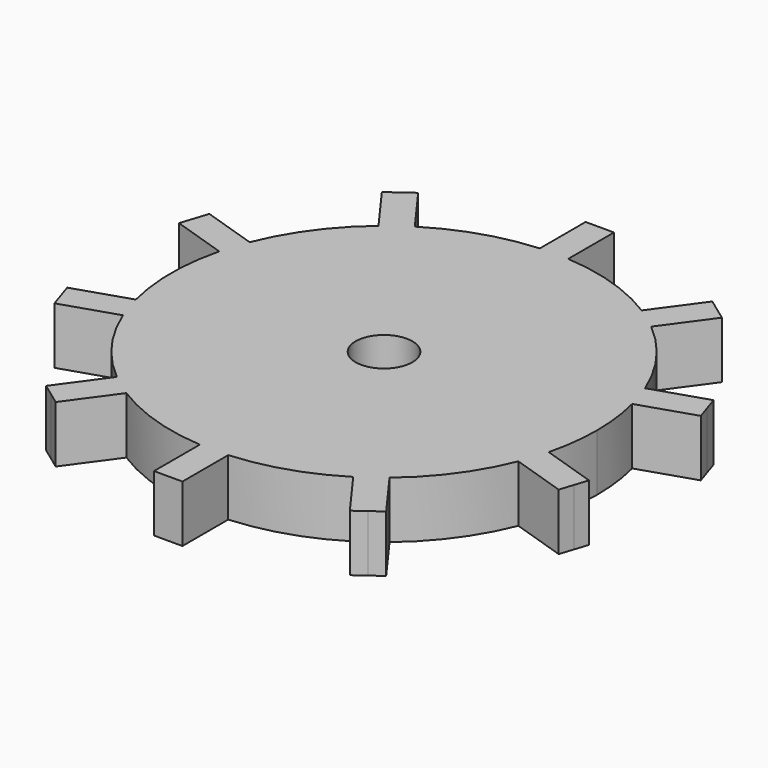
from build123d import *

# Parameters (mm, degrees)
F1_DEPTH = 2
F2_R     = 1
F3_DEPTH = 2.001


with BuildPart() as f1:
    # F0 (on Top) → F1 (new body)
    with BuildSketch(Plane.XY):
        with BuildLine():
            ThreePointArc((7.271564, -1.836943), (7.442672, -0.925546), (7.5, 0))
            ThreePointArc((7.5, 0), (7.442672, 0.925546), (7.271564, 1.836943))
            ThreePointArc((7.271564, 1.836943), (7.132924, 2.317627), (6.962547, 2.788))
            ThreePointArc((6.962547, 2.788), (6.067627, 4.408389), (4.803091, 5.760236))
            ThreePointArc((4.803091, 5.760236), (4.408389, 6.067627), (3.994074, 6.348021))
            ThreePointArc((3.994074, 6.348021), (2.317627, 7.132924), (0.5, 7.483315))
            ThreePointArc((0.5, 7.483315), (0, 7.5), (-0.5, 7.483315))
            ThreePointArc((-0.5, 7.483315), (-2.317627, 7.132924), (-3.994074, 6.348021))
            ThreePointArc((-3.994074, 6.348021), (-4.408389, 6.067627), (-4.803091, 5.760236))
            ThreePointArc((-4.803091, 5.760236), (-6.067627, 4.408389), (-6.962547, 2.788))
            ThreePointArc((-6.962547, 2.788), (-7.132924, 2.317627), (-7.271564, 1.836943))
            ThreePointArc((-7.271564, 1.836943), (-7.5, 0), (-7.271564, -1.836943))
            ThreePointArc((-7.271564, -1.836943), (-7.132924, -2.317627), (-6.962547, -2.788))
            ThreePointArc((-6.962547, -2.788), (-6.067627, -4.408389), (-4.803091, -5.760236))
            ThreePointArc((-4.803091, -5.760236), (-4.408389, -6.067627), (-3.994074, -6.348021))
            ThreePointArc((-3.994074, -6.348021), (-2.317627, -7.132924), (-0.5, -7.483315))
            ThreePointArc((-0.5, -7.483315), (0, -7.5), (0.5, -7.483315))
            ThreePointArc((0.5, -7.483315), (2.317627, -7.132924), (3.994074, -6.348021))
            ThreePointArc((3.994074, -6.348021), (4.408389, -6.067627), (4.803091, -5.760236))
            ThreePointArc((4.803091, -5.760236), (6.067627, -4.408389), (6.962547, -2.788))
            ThreePointArc((6.962547, -2.788), (7.132924, -2.317627), (7.271564, -1.836943))
        make_face()
        with BuildLine():
            ThreePointArc((6.962547, 2.788), (7.132924, 2.317627), (7.271564, 1.836943))
            Line((7.271564, 1.836943), (9.189545, 2.460133))
            Line((9.189545, 2.460133), (9.035037, 2.935661))
            Line((9.035037, 2.935661), (8.880528, 3.41119))
            Line((8.880528, 3.41119), (6.962547, 2.788))
        make_face()
        with BuildLine():
            Line((9.189545, -2.460133), (7.271564, -1.836943))
            ThreePointArc((7.271564, -1.836943), (7.132924, -2.317627), (6.962547, -2.788))
            Line((6.962547, -2.788), (8.880528, -3.41119))
            Line((8.880528, -3.41119), (9.035037, -2.935661))
            Line((9.035037, -2.935661), (9.189545, -2.460133))
        make_face()
        with BuildLine():
            ThreePointArc((3.994074, 6.348021), (4.408389, 6.067627), (4.803091, 5.760236))
            Line((4.803091, 5.760236), (5.988468, 7.391769))
            Line((5.988468, 7.391769), (5.58396, 7.685661))
            Line((5.58396, 7.685661), (5.179451, 7.979554))
            Line((5.179451, 7.979554), (3.994074, 6.348021))
        make_face()
        with BuildLine():
            Line((5.988468, -7.391769), (4.803091, -5.760236))
            ThreePointArc((4.803091, -5.760236), (4.408389, -6.067627), (3.994074, -6.348021))
            Line((3.994074, -6.348021), (5.179451, -7.979554))
            Line((5.179451, -7.979554), (5.58396, -7.685661))
            Line((5.58396, -7.685661), (5.988468, -7.391769))
        make_face()
        with BuildLine():
            ThreePointArc((-0.5, 7.483315), (0, 7.5), (0.5, 7.483315))
            Line((0.5, 7.483315), (0.5, 9.5))
            Line((0.5, 9.5), (0, 9.5))
            Line((0, 9.5), (-0.5, 9.5))
            Line((-0.5, 9.5), (-0.5, 7.483315))
        make_face()
        with BuildLine():
            Line((0.5, -9.5), (0.5, -7.483315))
            ThreePointArc((0.5, -7.483315), (0, -7.5), (-0.5, -7.483315))
            Line((-0.5, -7.483315), (-0.5, -9.5))
            Line((-0.5, -9.5), (0, -9.5))
            Line((0, -9.5), (0.5, -9.5))
        make_face()
        with BuildLine():
            ThreePointArc((-4.803091, 5.760236), (-4.408389, 6.067627), (-3.994074, 6.348021))
            Line((-3.994074, 6.348021), (-5.179451, 7.979554))
            Line((-5.179451, 7.979554), (-5.58396, 7.685661))
            Line((-5.58396, 7.685661), (-5.988468, 7.391769))
            Line((-5.988468, 7.391769), (-4.803091, 5.760236))
        make_face()
        with BuildLine():
            Line((-5.179451, -7.979554), (-3.994074, -6.348021))
            ThreePointArc((-3.994074, -6.348021), (-4.408389, -6.067627), (-4.803091, -5.760236))
            Line((-4.803091, -5.760236), (-5.988468, -7.391769))
            Line((-5.988468, -7.391769), (-5.58396, -7.685661))
            Line((-5.58396, -7.685661), (-5.179451, -7.979554))
        make_face()
        with BuildLine():
            ThreePointArc((-7.271564, 1.836943), (-7.132924, 2.317627), (-6.962547, 2.788))
            Line((-6.962547, 2.788), (-8.880528, 3.41119))
            Line((-8.880528, 3.41119), (-9.035037, 2.935661))
            Line((-9.035037, 2.935661), (-9.189545, 2.460133))
            Line((-9.189545, 2.460133), (-7.271564, 1.836943))
        make_face()
        with BuildLine():
            Line((-8.880528, -3.41119), (-6.962547, -2.788))
            ThreePointArc((-6.962547, -2.788), (-7.132924, -2.317627), (-7.271564, -1.836943))
            Line((-7.271564, -1.836943), (-9.189545, -2.460133))
            Line((-9.189545, -2.460133), (-9.035037, -2.935661))
            Line((-9.035037, -2.935661), (-8.880528, -3.41119))
        make_face()
    extrude(amount=F1_DEPTH)

    # F2 (on face) → F3 (cut, through all)
    with BuildSketch(Plane.XY.offset(2)):
        Circle(F2_R)
    extrude(amount=-F3_DEPTH, mode=Mode.SUBTRACT)


solid = f1.part
